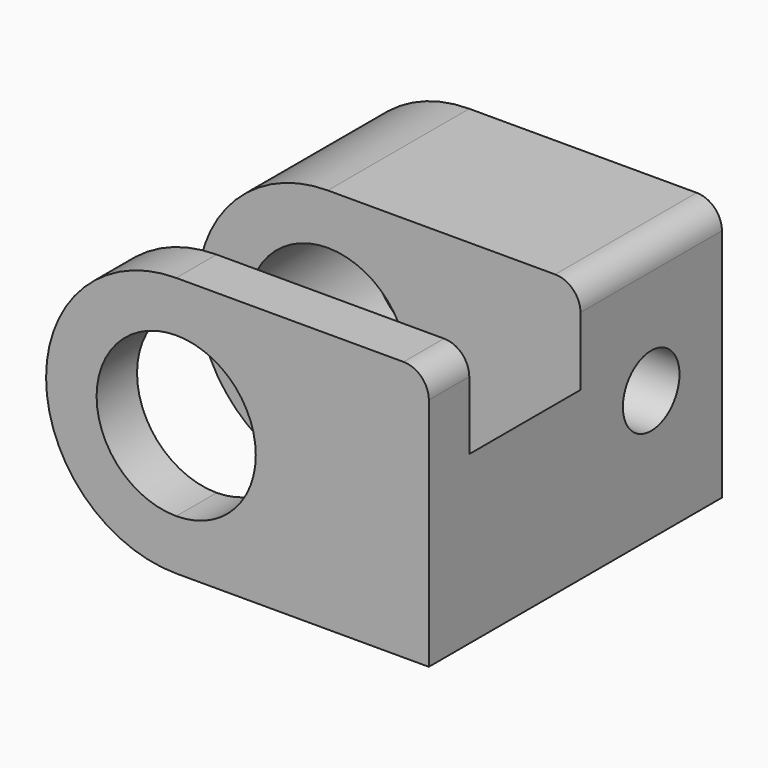
from build123d import *

# Parameters (mm, degrees)
F1_DEPTH = 14.5
F4_DEPTH = 5.5
F5_R     = 1.4
F6_DEPTH = 9.5
F7_R     = 4
F8_DEPTH = 1
F9_R     = 1


with BuildPart() as f1:
    # F0 (on Front) → F1 (new body)
    with BuildSketch(Plane.XZ):
        with BuildLine():
            ThreePointArc((0, 3.15), (2.2273863607, 2.2273863607), (3.15, 0))
            ThreePointArc((3.15, 0), (2.2273863607, -2.2273863607), (0, -3.15))
            Line((0, -3.15), (0, -5.15))
            Line((0, -5.15), (10, -5.15))
            Line((10, -5.15), (10, 0))
            Line((10, 0), (10, 5.15))
            Line((10, 5.15), (0, 5.15))
            Line((0, 5.15), (0, 3.15))
        make_face()
        with BuildLine():
            ThreePointArc((0, -3.15), (-3.15, 0), (0, 3.15))
            Line((0, 3.15), (0, 5.15))
            ThreePointArc((0, 5.15), (-5.15, 0), (0, -5.15))
            Line((0, -5.15), (0, -3.15))
        make_face()
    extrude(amount=F1_DEPTH)

    # F3 (on offset) → F4 (cut)
    with BuildSketch(Plane.XZ.offset(12.5)):
        Polygon((-9.8062800243, -5.15), (0, -5.15), (3.4, -5.15), (10, 1.45), (10, 5.7288180105), (-9.8062800243, 5.7288180105), align=None)
    extrude(amount=-F4_DEPTH, mode=Mode.SUBTRACT)

    # F5 (on face) → F6 (cut)
    with BuildSketch(Plane.YZ.offset(10)):
        with Locations((-3.5, 0)):
            Circle(F5_R)
    extrude(amount=-F6_DEPTH, mode=Mode.SUBTRACT)

    # F7 (on face) → F8 (join)
    with BuildSketch(Plane(origin=(0, 0, 0), x_dir=(-1, 0, 0), z_dir=(0, 1, 0))):
        Circle(F7_R)
    extrude(amount=-F8_DEPTH)

    # F9
    f9_edges = [f1.edges().sort_by_distance(p)[0] for p in [
        (10, -13.5, 5.15),
        (10, -3.5, 5.15),
    ]]
    fillet(f9_edges, radius=F9_R)


solid = f1.part
